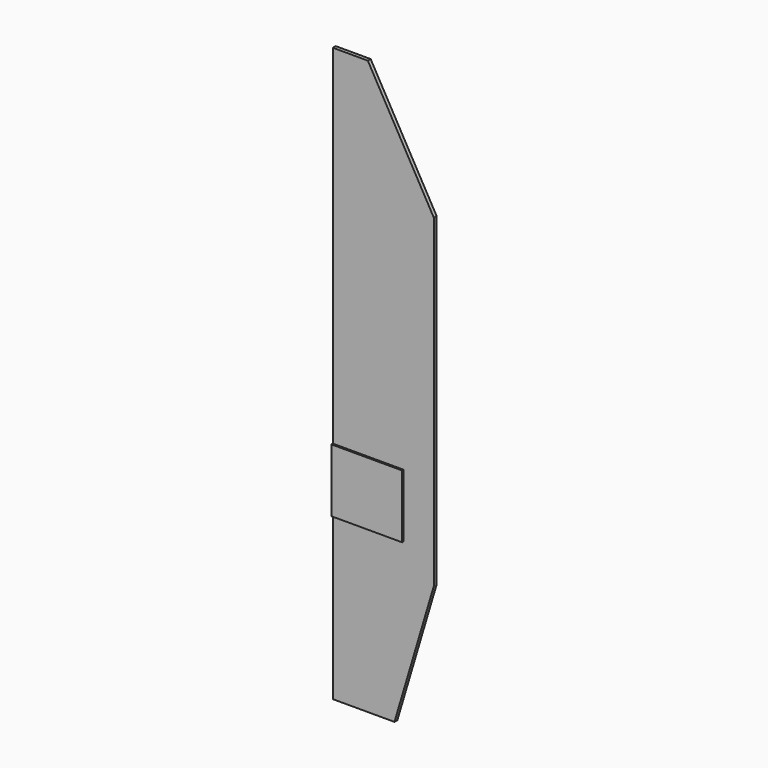
from build123d import *

# Parameters (mm, degrees)
F1_DEPTH = 2
F2_W     = 40
F2_H     = 35.7144698501
F3_DEPTH = 3
F5_DEPTH = 1


with BuildPart() as f1:
    # F0 (on Front) → F1 (new body)
    with BuildSketch(Plane.XZ):
        Polygon((0, 200), (0, 0), (40, 0), (57.0436641574, 0), (57.0436641574, 166.6676832028), (19.7868949101, 232.5990796089), (0, 232.5990796089), align=None)
        Polygon((40, 0), (0, 0), (0, -91.3930758834), (34.847214818, -91.3930758834), (57.0436641574, -16.6981015354), (57.0436641574, 0), align=None)
    extrude(amount=F1_DEPTH)

    # F2 (on face) → F3 (join)
    with BuildSketch(Plane(origin=(0, 0, 0), x_dir=(-1, 0, 0), z_dir=(0, 1, 0))):
        with Locations((-20, 17.857234925)):
            Rectangle(F2_W, F2_H)
    extrude(amount=-F3_DEPTH)

    # F6: F5, F5b, F5c, F5d, F5e, F5f, F5g, F5h, F5i, F5j, F5k across plane


with BuildPart() as f5:
    # F4 (on face) → F5 (new body)
    with BuildSketch(Plane(origin=(0, 0, 0), x_dir=(-1, 0, 0), z_dir=(0, 1, 0))):
        with BuildLine():
            Line((7.0905264678, 220.5278199643), (3.8642063845, 220.5278199643))
            Line((3.8642063845, 220.5278199643), (2.5705423417, 217.833004567))
            Line((2.5705423417, 217.833004567), (2.9508444352, 217.6504380193))
            Line((2.9508444352, 217.6504380193), (3.5343133649, 218.8658548537))
            Line((3.5343133649, 218.8658548537), (15.7429002159, 218.8658548537))
            add(Edge.make_bspline(
                [(17.658172684, 220.5278199643), (16.6804883842, 219.8337986263), (15.7429002159, 218.8658548537)],
                knots=[0.638899142, 0.638899142, 0.638899142, 0.846667937, 0.846667937, 0.846667937], degree=2, weights=[1, 0.994608867, 1]))
            Line((17.658172684, 220.5278199643), (7.0905264678, 220.5278199643))
        make_face()
        with BuildLine():
            Line((20.1967017132, 220.5278199643), (17.658172684, 220.5278199643))
            add(Edge.make_bspline(
                [(17.658172684, 220.5278199643), (16.6804883842, 219.8337986263), (15.7429002159, 218.8658548537)],
                knots=[0.638899142, 0.638899142, 0.638899142, 0.846667937, 0.846667937, 0.846667937], degree=2, weights=[1, 0.994608867, 1]))
            add(Edge.make_bspline(
                [(15.7429002159, 218.8658548537), (-8.6987933112, 193.6328305445), (14.8502426987, 192.117467704)],
                knots=[0.846667937, 0.846667937, 0.846667937, 3.2831460951, 3.2831460951, 3.2831460951], degree=2, weights=[1, 0.3452988924, 1]))
            Line((14.8502426987, 192.117467704), (14.8502426987, 193.8335746007))
            add(Edge.make_bspline(
                [(20.1967017132, 220.5278199643), (13.4610376991, 219.4409382836), (11.1107241096, 207.706097061), (8.7604105202, 195.9712558385), (14.8502426987, 193.8335746007)],
                knots=[0.2259031223, 0.2259031223, 0.2259031223, 1.658870786, 1.658870786, 3.0918384497, 3.0918384497, 3.0918384497], degree=2, weights=[1, 0.7541195843, 1, 0.7541195843, 1]))
        make_face()
    extrude(amount=F5_DEPTH)


with BuildPart() as f5b:
    # F4 (on face) → F5, piece 2 (new body)
    with BuildSketch(Plane(origin=(0, 0, 0), x_dir=(-1, 0, 0), z_dir=(0, 1, 0))):
        with BuildLine():
            Line((11.98013376, 170.6910666455), (10.2839322081, 168.3810014422))
            add(Edge.make_bspline(
                [(10.2839322081, 168.3810014422), (19.4364606361, 153.127723739), (23.076394492, 176.971010363), (26.7163283478, 200.814296987), (12.9430971321, 185.7997881496)],
                knots=[2.589616746, 2.589616746, 2.589616746, 4.8480636643, 4.8480636643, 7.1065105827, 7.1065105827, 7.1065105827], degree=2, weights=[1, 0.4273619922, 1, 0.4273619922, 1]))
            Line((12.9430971321, 185.7997881496), (13.615047999, 183.6086139976))
            add(Edge.make_bspline(
                [(11.98013376, 170.6910666455), (19.7707789111, 161.5355697766), (21.7104698505, 176.8611746064), (23.6501607898, 192.1867794361), (13.615047999, 183.6086139976)],
                knots=[2.6540799085, 2.6540799085, 2.6540799085, 4.8418422709, 4.8418422709, 7.0296046332, 7.0296046332, 7.0296046332], degree=2, weights=[1, 0.4590407325, 1, 0.4590407325, 1]))
        make_face()
    extrude(amount=F5_DEPTH)


with BuildPart() as f5c:
    # F4 (on face) → F5, piece 3 (new body)
    with BuildSketch(Plane(origin=(0, 0, 0), x_dir=(-1, 0, 0), z_dir=(0, 1, 0))):
        with BuildLine():
            add(Edge.make_bspline(
                [(16.9798135494, 160.6844544485), (17.4374839397, 160.7766401378), (18.2959024993, 160.9495460145), (17.550744646, 159.7484616316), (16.6596597718, 160.4328506198), (13.583544721, 159.3733743648), (11.6004086595, 157.097619012), (10.3687359451, 147.9862497186), (13.405045195, 136.8945912106), (13.5959238262, 134.7284966233), (13.6576411406, 134.0338198382)],
                knots=[0, 0, 0, 0, 0.069861459, 0.1310352346, 0.1967238463, 0.31708014, 0.4347804455, 0.6466403579, 0.8866774832, 1, 1, 1, 1], degree=3))
            add(Edge.make_bspline(
                [(16.9798135494, 160.6844544485), (15.7560269449, 160.3900435367), (13.3497093147, 159.8111467216), (10.4898594177, 157.1436715304), (9.2182894785, 147.7363301769), (12.953853791, 134.6883021617), (10.9929620799, 129.8086881175), (10.1738460098, 127.7703449204)],
                knots=[0, 0, 0, 0, 0.145483338, 0.2860622268, 0.5163491028, 0.7979662926, 1, 1, 1, 1], degree=3))
            add(Edge.make_bspline(
                [(10.1738460098, 127.7703449204), (10.972031287, 128.4594627764), (12.4936338208, 129.7731470872), (13.0568042059, 131.0313680241), (13.2978968059, 132.1217075065)],
                knots=[0, 0, 0, 0, 0.0471409029, 0.090792087, 0.090792087, 0.090792087, 0.090792087], degree=3))
            add(Edge.make_bspline(
                [(13.2978968059, 132.1217075065), (13.417446271, 132.6623690695), (13.5297005325, 133.3223843638), (13.6576411406, 134.0338198382)],
                knots=[0.090792087, 0.090792087, 0.090792087, 0.090792087, 0.1124371964, 0.1124371964, 0.1124371964, 0.1124371964], degree=3))
        make_face()
        with BuildLine():
            add(Edge.make_bspline(
                [(13.6576411406, 134.0338198382), (13.968119219, 135.7602859082), (14.8619126258, 140.2625400448), (19.231547941, 142.0514566395), (25.0498150631, 145.677277464), (24.2853352046, 132.7011906465), (21.628917705, 128.1297963783), (18.1773232253, 128.6482116592), (18.0368101265, 132.0557943537), (21.3431183279, 132.894501579), (20.4763682576, 131.2085144457), (19.1548884229, 131.6945888487), (19.5658761033, 128.6583080884), (21.7001816335, 129.1727020136), (23.5418611572, 132.734914139), (24.3703456035, 143.09068015), (20.1405085495, 142.0261080325), (15.4933462351, 138.8456384588), (14.5865195338, 135.3377921249), (14.1419339661, 133.1012725904)],
                knots=[0.1124371964, 0.1124371964, 0.1124371964, 0.1124371964, 0.1649641625, 0.2289758319, 0.2841740278, 0.3722554384, 0.4349679341, 0.4772364321, 0.5214602977, 0.5618696412, 0.5886607671, 0.6147731344, 0.6544486279, 0.6864815372, 0.7428082507, 0.8247530624, 0.8693073513, 0.9333220228, 1, 1, 1, 1], degree=3))
            add(Edge.make_bspline(
                [(13.2978968059, 132.1217075065), (13.417446271, 132.6623690695), (13.5297005325, 133.3223843638), (13.6576411406, 134.0338198382)],
                knots=[0.090792087, 0.090792087, 0.090792087, 0.090792087, 0.1124371964, 0.1124371964, 0.1124371964, 0.1124371964], degree=3))
            add(Edge.make_bspline(
                [(14.1419339661, 133.1012725904), (13.8605882461, 132.7747508958), (13.579242526, 132.4482292011), (13.2978968059, 132.1217075065)],
                knots=[0, 0, 0, 0, 1.2930376954, 1.2930376954, 1.2930376954, 1.2930376954], degree=3))
        make_face()
    extrude(amount=F5_DEPTH)


with BuildPart() as f5d:
    # F4 (on face) → F5, piece 4 (new body)
    with BuildSketch(Plane(origin=(0, 0, 0), x_dir=(-1, 0, 0), z_dir=(0, 1, 0))):
        with BuildLine():
            add(Edge.make_bspline(
                [(16.9798135494, 125.6844431236), (17.4374839397, 125.7766288129), (18.2959024993, 125.9495346896), (17.550744646, 124.7484503067), (16.6596597718, 125.4328392949), (13.583544721, 124.3733630399), (11.6004086595, 122.0976076871), (10.3687359451, 112.9862383937), (13.405045195, 101.8945798857), (13.5959238262, 99.7284852984), (13.6576411406, 99.0338085134)],
                knots=[0, 0, 0, 0, 0.069861459, 0.1310352346, 0.1967238463, 0.31708014, 0.4347804455, 0.6466403579, 0.8866774832, 1, 1, 1, 1], degree=3))
            add(Edge.make_bspline(
                [(16.9798135494, 125.6844431236), (15.7560269449, 125.3900322118), (13.3497093147, 124.8111353967), (10.4898594177, 122.1436602055), (9.2182894785, 112.736318852), (12.953853791, 99.6882908368), (10.9929620799, 94.8086767926), (10.1738460098, 92.7703335956)],
                knots=[0, 0, 0, 0, 0.145483338, 0.2860622268, 0.5163491028, 0.7979662926, 1, 1, 1, 1], degree=3))
            add(Edge.make_bspline(
                [(10.1738460098, 92.7703335956), (10.972031287, 93.4594514515), (12.4936338208, 94.7731357624), (13.0568042059, 96.0313566992), (13.2978968059, 97.1216961816)],
                knots=[0, 0, 0, 0, 0.0471409029, 0.090792087, 0.090792087, 0.090792087, 0.090792087], degree=3))
            add(Edge.make_bspline(
                [(13.2978968059, 97.1216961816), (13.417446271, 97.6623577446), (13.5297005325, 98.3223730389), (13.6576411406, 99.0338085134)],
                knots=[0.090792087, 0.090792087, 0.090792087, 0.090792087, 0.1124371964, 0.1124371964, 0.1124371964, 0.1124371964], degree=3))
        make_face()
        with BuildLine():
            add(Edge.make_bspline(
                [(13.6576411406, 99.0338085134), (13.968119219, 100.7602745833), (14.8619126258, 105.2625287199), (19.231547941, 107.0514453146), (25.0498150631, 110.6772661391), (24.2853352046, 97.7011793216), (21.628917705, 93.1297850534), (18.1773232253, 93.6482003343), (18.0368101265, 97.0557830288), (21.3431183279, 97.8944902541), (20.4763682576, 96.2085031208), (19.1548884229, 96.6945775238), (19.5658761033, 93.6582967635), (21.7001816335, 94.1726906887), (23.5418611572, 97.7349028141), (24.3703456035, 108.0906688252), (20.1405085495, 107.0260967076), (15.4933462351, 103.8456271339), (14.5865195338, 100.3377808), (14.1419339661, 98.1012612656)],
                knots=[0.1124371964, 0.1124371964, 0.1124371964, 0.1124371964, 0.1649641625, 0.2289758319, 0.2841740278, 0.3722554384, 0.4349679341, 0.4772364321, 0.5214602977, 0.5618696412, 0.5886607671, 0.6147731344, 0.6544486279, 0.6864815372, 0.7428082507, 0.8247530624, 0.8693073513, 0.9333220228, 1, 1, 1, 1], degree=3))
            add(Edge.make_bspline(
                [(13.2978968059, 97.1216961816), (13.417446271, 97.6623577446), (13.5297005325, 98.3223730389), (13.6576411406, 99.0338085134)],
                knots=[0.090792087, 0.090792087, 0.090792087, 0.090792087, 0.1124371964, 0.1124371964, 0.1124371964, 0.1124371964], degree=3))
            add(Edge.make_bspline(
                [(14.1419339661, 98.1012612656), (13.8605882461, 97.7747395709), (13.579242526, 97.4482178762), (13.2978968059, 97.1216961816)],
                knots=[0, 0, 0, 0, 1.2930376954, 1.2930376954, 1.2930376954, 1.2930376954], degree=3))
        make_face()
    extrude(amount=F5_DEPTH)


with BuildPart() as f5e:
    # F4 (on face) → F5, piece 5 (new body)
    with BuildSketch(Plane(origin=(0, 0, 0), x_dir=(-1, 0, 0), z_dir=(0, 1, 0))):
        with BuildLine():
            add(Edge.make_bspline(
                [(12.0149422173, 90.1017852202), (11.5149780913, 89.4771007956), (10.0382552421, 87.6319968865), (11.992328013, 76.4826037153), (14.8527747411, 73.8320821246), (16.0490981971, 72.7235555723)],
                knots=[0, 0, 0, 0, 0.2294564884, 0.6777359048, 1, 1, 1, 1], degree=3))
            add(Edge.make_bspline(
                [(12.0149422173, 90.1017852202), (11.5899504233, 89.9594648085), (10.6293761296, 89.6377895883), (9.82079858, 87.3435059364), (8.7203864349, 84.074357196), (11.9391543939, 73.2834094798), (14.792840425, 72.0307439539), (15.8753618334, 71.5555559918)],
                knots=[0, 0, 0, 0, 0.1184262249, 0.2676691384, 0.461125332, 0.7955824999, 1, 1, 1, 1], degree=3))
            add(Edge.make_bspline(
                [(16.0490981971, 72.7235555723), (16.8354013647, 72.8079974292), (18.5280068082, 72.9897679631), (19.849095422, 75.9516104289), (22.008136317, 81.1190619969), (21.0595511669, 85.6911543979), (19.4920405986, 88.4911760807), (16.9157960465, 89.9841813122), (18.4413013582, 91.0257249002), (19.8684378226, 89.3365755371), (22.7424378538, 85.6412406194), (23.2551295402, 80.9893415478), (19.9141304763, 71.8871562587), (16.9977448978, 71.6477084661), (15.8753618334, 71.5555559918)],
                knots=[0, 0, 0, 0, 0.0662645921, 0.1426419401, 0.2477510851, 0.3420222557, 0.4229407924, 0.4895170501, 0.5321613594, 0.5931404649, 0.6876499758, 0.7852235025, 0.9173423757, 1, 1, 1, 1], degree=3))
        make_face()
    extrude(amount=F5_DEPTH)


with BuildPart() as f5f:
    # F4 (on face) → F5, piece 6 (new body)
    with BuildSketch(Plane(origin=(0, 0, 0), x_dir=(-1, 0, 0), z_dir=(0, 1, 0))):
        with BuildLine():
            Line((9.8438808593, 50.2346890647), (6.617560776, 50.2346890647))
            Line((6.617560776, 50.2346890647), (5.3238967332, 47.5398736674))
            Line((5.3238967332, 47.5398736674), (5.7041988267, 47.3573071197))
            Line((5.7041988267, 47.3573071197), (6.2876677564, 48.5727239541))
            Line((6.2876677564, 48.5727239541), (18.4962546074, 48.5727239541))
            add(Edge.make_bspline(
                [(20.4115270755, 50.2346890647), (19.4338427756, 49.5406677267), (18.4962546074, 48.5727239541)],
                knots=[0.638899142, 0.638899142, 0.638899142, 0.846667937, 0.846667937, 0.846667937], degree=2, weights=[1, 0.994608867, 1]))
            Line((20.4115270755, 50.2346890647), (9.8438808593, 50.2346890647))
        make_face()
        with BuildLine():
            Line((22.9500561047, 50.2346890647), (20.4115270755, 50.2346890647))
            add(Edge.make_bspline(
                [(20.4115270755, 50.2346890647), (19.4338427756, 49.5406677267), (18.4962546074, 48.5727239541)],
                knots=[0.638899142, 0.638899142, 0.638899142, 0.846667937, 0.846667937, 0.846667937], degree=2, weights=[1, 0.994608867, 1]))
            add(Edge.make_bspline(
                [(18.4962546074, 48.5727239541), (-5.9454389198, 23.339699645), (17.6035970902, 21.8243368044)],
                knots=[0.846667937, 0.846667937, 0.846667937, 3.2831460951, 3.2831460951, 3.2831460951], degree=2, weights=[1, 0.3452988924, 1]))
            Line((17.6035970902, 21.8243368044), (17.6035970902, 23.5404437011))
            add(Edge.make_bspline(
                [(22.9500561047, 50.2346890647), (16.2143920906, 49.147807384), (13.8640785011, 37.4129661614), (11.5137649117, 25.6781249389), (17.6035970902, 23.5404437011)],
                knots=[0.2259031223, 0.2259031223, 0.2259031223, 1.658870786, 1.658870786, 3.0918384497, 3.0918384497, 3.0918384497], degree=2, weights=[1, 0.7541195843, 1, 0.7541195843, 1]))
        make_face()
    extrude(amount=F5_DEPTH)


with BuildPart() as f5g:
    # F4 (on face) → F5, piece 7 (new body)
    with BuildSketch(Plane(origin=(0, 0, 0), x_dir=(-1, 0, 0), z_dir=(0, 1, 0))):
        with BuildLine():
            add(Edge.make_bspline(
                [(14.9939935391, -0.8638936952), (14.2860722495, 0.0476505586), (12.762940237, 2.0088886995), (11.4612354482, 6.8789464916), (12.611576537, 11.5147204341), (18.7940798292, 16.8907076934), (24.0465077415, 12.6611289167), (24.1201028932, 5.6269960416), (24.9885010139, 0.9710680563), (23.2112030149, -0.6214975227), (22.4009994154, -1.34748853)],
                knots=[0, 0, 0, 0, 0.1072772088, 0.2308128789, 0.354468681, 0.5031157078, 0.6307774792, 0.7809186949, 0.9001290374, 1, 1, 1, 1], degree=3))
            add(Edge.make_bspline(
                [(14.9939935391, -0.8638936952), (15.2882536345, -0.359228459), (15.942593737, 0.7629852137), (13.9870098641, 2.6979013436), (12.5757899136, 6.7181173643), (13.6974477368, 11.1973468277), (18.8470715379, 15.4516154027), (22.8876414945, 12.0393777922), (23.616916768, 5.6511497354), (24.0828863185, 1.3085021219), (22.924882515, -0.5201864013), (22.4009994154, -1.34748853)],
                knots=[0, 0, 0, 0, 0.0715774046, 0.1591651978, 0.273919972, 0.3947390971, 0.5284893746, 0.6420845581, 0.7859086501, 0.9031446705, 1, 1, 1, 1], degree=3))
        make_face()
    extrude(amount=F5_DEPTH)


with BuildPart() as f5h:
    # F4 (on face) → F5, piece 8 (new body)
    with BuildSketch(Plane(origin=(0, 0, 0), x_dir=(-1, 0, 0), z_dir=(0, 1, 0))):
        with BuildLine():
            add(Edge.make_bspline(
                [(11.6724413891, 16.350671377), (11.867409649, 16.5900481186), (12.3129674579, 17.1370919119), (13.9426301982, 18.0035770482), (19.1972437612, 17.9509902496), (22.9287087057, 17.9136467241)],
                knots=[0, 0, 0, 0, 0.1840258596, 0.4205513186, 1, 1, 1, 1], degree=3))
            add(Edge.make_bspline(
                [(11.6724413891, 16.350671377), (11.6449444005, 16.2196130256), (11.6174474119, 16.0885546741), (11.5899504233, 15.9574963227)],
                knots=[0, 0, 0, 0, 0.4017354637, 0.4017354637, 0.4017354637, 0.4017354637], degree=3))
            add(Edge.make_bspline(
                [(25.0098030154, 18.566395117), (25.1155297917, 18.4928899419), (25.343462557, 18.3344226322), (25.2192613965, 17.7696476367), (24.5879024131, 17.1150442943), (23.3619348643, 16.9017133259), (22.5547851315, 17.1927715257), (13.4772385798, 17.1631265843), (12.8810999297, 16.599219136), (12.2949340514, 16.4386010031), (11.8446176535, 16.131289857), (11.5899504233, 15.9574963227)],
                knots=[0, 0, 0, 0, 0.0609772986, 0.1314588865, 0.227751246, 0.3327331705, 0.4389625778, 0.7410890641, 0.8323554391, 0.9051920468, 1, 1, 1, 1], degree=3))
            add(Edge.make_bspline(
                [(22.9287087057, 17.9136467241), (23.1868017634, 17.6527002351), (23.7282996448, 17.1052156488), (25.1154080716, 17.820608833), (25.0410855902, 18.3454765733), (25.0098030154, 18.566395117)],
                knots=[0, 0, 0, 0, 0.3452822844, 0.7244271782, 1, 1, 1, 1], degree=3))
        make_face()
    extrude(amount=F5_DEPTH)


with BuildPart() as f5i:
    # F4 (on face) → F5, piece 9 (new body)
    with BuildSketch(Plane(origin=(0, 0, 0), x_dir=(-1, 0, 0), z_dir=(0, 1, 0))):
        with BuildLine():
            add(Edge.make_bspline(
                [(9.398703437, -10.5393461809), (14.1031908409, -10.6168238568), (21.4555598489, -10.7379091982), (26.2695420353, -10.1386082693), (26.8209636287, -7.4576327541), (27.0894868049, -6.1520907344)],
                knots=[0, 0, 0, 0, 0.476852837, 0.74524549, 1, 1, 1, 1], degree=3))
            add(Edge.make_bspline(
                [(27.0894868049, -6.1520907344), (26.6993028067, -6.742713018), (25.7689294596, -8.4876768643), (21.8056305997, -8.6653067875), (12.466371588, -8.6643165678), (7.7499843776, -6.189648127), (5.4586111664, -11.3590190914), (10.03233876, -13.1247531526), (16.1798365606, -18.0213015039), (17.9590390236, -19.6794784458), (20.498603982, -22.940402281)],
                knots=[0, 0, 0, 0, 0.0845195195, 0.1916174257, 0.3645245217, 0.4823106308, 0.5869024813, 0.7000337843, 0.84892382, 1, 1, 1, 1], degree=3))
            add(Edge.make_bspline(
                [(20.498603982, -22.940402281), (21.5234299167, -24.4567226876), (23.8726439113, -27.6772228657), (24.5347663839, -35.3664603559), (17.9488300494, -35.9692092636), (14.0635821564, -32.8754665374), (14.7082134818, -31.145972006)],
                knots=[0, 0, 0, 0, 0.2572481912, 0.5188018249, 0.7607255118, 1, 1, 1, 1], degree=3))
            add(Edge.make_bspline(
                [(14.7082134818, -31.145972006), (15.0056672571, -29.9682004961), (15.5850660971, -27.6740643866), (20.0757157888, -28.9933705754), (17.7098453705, -31.0282045299), (19.2051659241, -32.7420413602), (19.7880319007, -30.9826184001), (21.1411301222, -28.9642314472), (18.9966874027, -26.5736734319), (14.8854225429, -25.8920396761), (12.3648103697, -31.197621086), (14.4010566455, -35.5464905975), (17.900910452, -36.7764900086), (23.1677984126, -36.7335942756), (25.4558235734, -35.2985125259), (25.8546829709, -27.1963805903), (19.5243871805, -18.3058448936), (12.8714314245, -13.2029625971), (9.398703437, -10.5393461809)],
                knots=[0, 0, 0, 0, 0.0558359779, 0.1087607673, 0.1535683508, 0.1897096137, 0.2258508766, 0.2733540868, 0.3250424965, 0.3840569107, 0.4542689005, 0.5196618062, 0.5797158544, 0.6510240013, 0.6983118682, 0.782096755, 0.88625827, 1, 1, 1, 1], degree=3))
        make_face()
    extrude(amount=F5_DEPTH)


with BuildPart() as f5j:
    # F4 (on face) → F5, piece 10 (new body)
    with BuildSketch(Plane(origin=(0, 0, 0), x_dir=(-1, 0, 0), z_dir=(0, 1, 0))):
        with BuildLine():
            add(Edge.make_bspline(
                [(17.2149129212, -38.6889148504), (16.7149487952, -39.3135992749), (15.238225946, -41.1587031841), (17.1922987169, -52.3080963552), (20.052745445, -54.958617946), (21.2490689009, -56.0671444982)],
                knots=[0, 0, 0, 0, 0.2294564884, 0.6777359048, 1, 1, 1, 1], degree=3))
            add(Edge.make_bspline(
                [(17.2149129212, -38.6889148504), (16.7899211272, -38.831235262), (15.8293468335, -39.1529104822), (15.0207692839, -41.4471941341), (13.9203571387, -44.7163428746), (17.1391250978, -55.5072905907), (19.9928111289, -56.7599561167), (21.0753325373, -57.2351440787)],
                knots=[0, 0, 0, 0, 0.1184262249, 0.2676691384, 0.461125332, 0.7955824999, 1, 1, 1, 1], degree=3))
            add(Edge.make_bspline(
                [(21.2490689009, -56.0671444982), (22.0353720686, -55.9827026414), (23.7279775121, -55.8009321075), (25.0490661259, -52.8390896417), (27.2081070208, -47.6716380736), (26.2595218708, -43.0995456726), (24.6920113025, -40.2995239898), (22.1157667503, -38.8065187583), (23.6412720621, -37.7649751703), (25.0684085265, -39.4541245335), (27.9424085576, -43.1494594511), (28.4551002441, -47.8013585228), (25.1141011802, -56.9035438118), (22.1977156016, -57.1429916044), (21.0753325373, -57.2351440787)],
                knots=[0, 0, 0, 0, 0.0662645921, 0.1426419401, 0.2477510851, 0.3420222557, 0.4229407924, 0.4895170501, 0.5321613594, 0.5931404649, 0.6876499758, 0.7852235025, 0.9173423757, 1, 1, 1, 1], degree=3))
        make_face()
    extrude(amount=F5_DEPTH)


with BuildPart() as f5k:
    # F4 (on face) → F5, piece 11 (new body)
    with BuildSketch(Plane(origin=(0, 0, 0), x_dir=(-1, 0, 0), z_dir=(0, 1, 0))):
        with BuildLine():
            add(Edge.make_bspline(
                [(13.6634772643, -56.8984784186), (14.8466359552, -57.071842096), (17.1667408444, -57.4117664434), (19.9848300788, -59.9499483574), (21.4175690936, -63.2572771474), (21.391777349, -67.0682573043), (19.0926875267, -71.5612017664), (15.3766918643, -74.6748186697), (13.5492098571, -77.6665390185), (12.2473151903, -81.9592004466), (14.1773760808, -84.9885418226), (14.414049685, -86.2646177411), (15.9151945263, -87.0151892304)],
                knots=[0, 0, 0, 0, 0.0963660702, 0.1942529094, 0.290688859, 0.3894973755, 0.5044178222, 0.6173150292, 0.7144930507, 0.8205080598, 0.9117157232, 1, 1, 1, 1], degree=3))
            add(Edge.make_bspline(
                [(18.4483751655, -80.0723955035), (18.7957749649, -79.7075143237), (19.5056795982, -78.9618868382), (20.7863480039, -80.2797077072), (20.4811004941, -84.4256719095), (18.9446944334, -87.1292393942), (16.9538524365, -88.2489400992), (13.571814727, -87.4052496406), (12.3973027411, -84.2267792101), (11.4735383845, -82.0038257486), (11.6867694294, -77.7532653785), (13.9936080627, -74.1788247342), (17.7363008585, -70.9840040547), (20.4654665829, -67.0382664226), (20.3816479836, -63.1351351184), (18.9118280106, -59.8570596953), (16.5161877184, -57.9859059608), (11.4477105271, -58.2339012282), (13.8020517192, -57.2966953465), (13.6634772643, -56.8984784186)],
                knots=[0, 0, 0, 0, 0.0386016582, 0.0764521439, 0.1449690627, 0.2046377178, 0.2532507888, 0.3125512479, 0.3727249327, 0.4258012549, 0.493476368, 0.563057312, 0.6386397559, 0.7117149788, 0.7770382338, 0.8393685873, 0.9011597021, 0.9613899765, 1, 1, 1, 1], degree=3))
            add(Edge.make_bspline(
                [(15.9151945263, -87.0151892304), (16.7243411861, -86.8261252579), (18.3700603916, -86.4415890221), (19.2069473466, -84.0268525918), (19.5674654231, -80.6120320827), (18.7437428057, -80.2148247508), (18.4483751655, -80.0723955035)],
                knots=[0, 0, 0, 0, 0.2588330446, 0.5264391903, 0.8301921837, 1, 1, 1, 1], degree=3))
        make_face()
    extrude(amount=F5_DEPTH)


with BuildPart() as f1_1:
    add(f1.part)
    add(f5.part.mirror(Plane.YZ))
    add(f5b.part.mirror(Plane.YZ))
    add(f5c.part.mirror(Plane.YZ))
    add(f5d.part.mirror(Plane.YZ))
    add(f5e.part.mirror(Plane.YZ))
    add(f5f.part.mirror(Plane.YZ))
    add(f5g.part.mirror(Plane.YZ))
    add(f5h.part.mirror(Plane.YZ))
    add(f5i.part.mirror(Plane.YZ))
    add(f5j.part.mirror(Plane.YZ))
    add(f5k.part.mirror(Plane.YZ))


solid = f1_1.part
